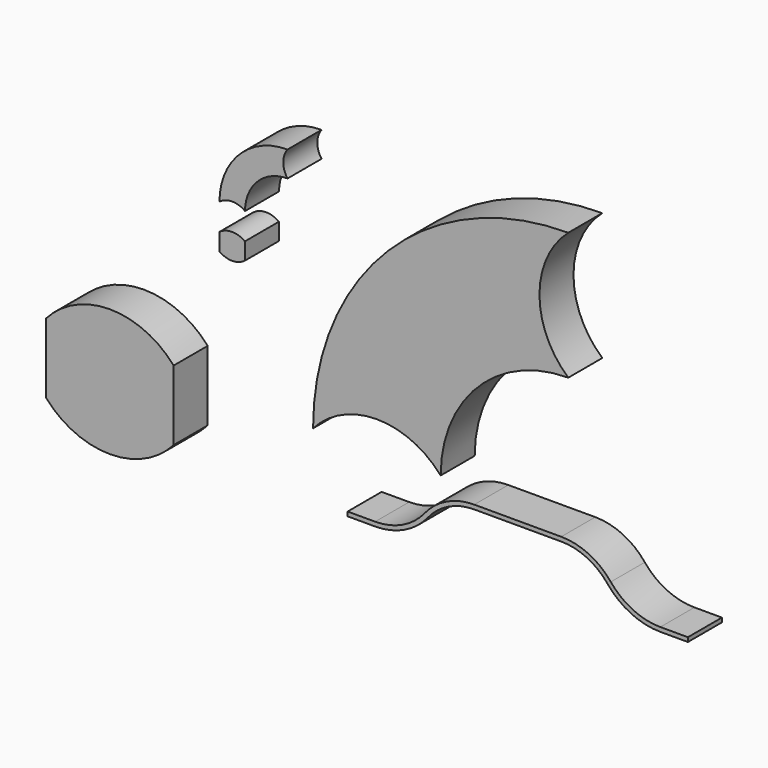
from build123d import *

# Parameters (mm, degrees)
F0_W     = 3
F0_H     = 0.8228756555
F1_DEPTH = 1
F0_W_2   = 0.6
F0_H_2   = 0.2
F2_W     = 0.6473389859
F2_H     = 0.1
F2_W_2   = 1.0221048092
F3_DEPTH = 1


with BuildPart() as f1:
    # F0 (on Front) → F1 (new body)
    with BuildSketch(Plane.XZ):
        with Locations((-22.920627147, 2.5375319613)):
            Rectangle(F0_W, F0_H)
        with Locations((-22.920627147, 1.7146563058)):
            Rectangle(F0_W, F0_H)
        with BuildLine():
            Line((-21.420627147, 1.303218478), (-24.420627147, 1.303218478))
            ThreePointArc((-24.420627147, 1.303218478), (-22.920627147, 0.6260941336), (-21.420627147, 1.303218478))
        make_face()
        with BuildLine():
            ThreePointArc((-21.420627147, 2.9489697891), (-22.920627147, 3.6260941336), (-24.420627147, 2.9489697891))
            Line((-24.420627147, 2.9489697891), (-21.420627147, 2.9489697891))
        make_face()
    extrude(amount=F1_DEPTH)


with BuildPart() as f1b:
    # F0 (on Front) → F1, piece 2 (new body)
    with BuildSketch(Plane.XZ):
        with Locations((-20.0480559736, 5.9617664746)):
            Rectangle(F0_W_2, F0_H_2)
        with Locations((-20.0480559736, 5.7617664746)):
            Rectangle(F0_W_2, F0_H_2)
        with BuildLine():
            Line((-19.7480559736, 5.6617664746), (-20.3480559736, 5.6617664746))
            ThreePointArc((-20.3480559736, 5.6617664746), (-20.0480559736, 5.5617664746), (-19.7480559736, 5.6617664746))
        make_face()
        with BuildLine():
            ThreePointArc((-19.7480559736, 6.0617664746), (-20.0480559736, 6.1617664746), (-20.3480559736, 6.0617664746))
            Line((-20.3480559736, 6.0617664746), (-19.7480559736, 6.0617664746))
        make_face()
    extrude(amount=F1_DEPTH)


with BuildPart() as f1c:
    # F0 (on Front) → F1, piece 3 (new body)
    with BuildSketch(Plane.XZ):
        with BuildLine():
            ThreePointArc((-12.1437952999, 5.7136720182), (-12.8209196444, 7.2136720182), (-12.1437952999, 8.7136720182))
            ThreePointArc((-12.1437952999, 8.7136720182), (-16.3864359871, 6.9563127053), (-18.1437952999, 2.7136720182))
            ThreePointArc((-18.1437952999, 2.7136720182), (-16.6437952999, 3.3907963627), (-15.1437952999, 2.7136720182))
            ThreePointArc((-15.1437952999, 2.7136720182), (-14.2651156435, 4.8349923618), (-12.1437952999, 5.7136720182))
        make_face()
    extrude(amount=F1_DEPTH)


with BuildPart() as f1d:
    # F0 (on Front) → F1, piece 4 (new body)
    with BuildSketch(Plane.XZ):
        with BuildLine():
            ThreePointArc((-18.7439574825, 7.6901305423), (-18.8439574825, 7.9901305423), (-18.7439574825, 8.2901305423))
            ThreePointArc((-18.7439574825, 8.2901305423), (-19.8753283324, 7.8215013922), (-20.3439574825, 6.6901305423))
            ThreePointArc((-20.3439574825, 6.6901305423), (-20.0439574825, 6.7901305423), (-19.7439574825, 6.6901305423))
            ThreePointArc((-19.7439574825, 6.6901305423), (-19.4510642637, 7.3972373235), (-18.7439574825, 7.6901305423))
        make_face()
    extrude(amount=F1_DEPTH)


with BuildPart() as f3:
    # F2 (on Front) → F3 (new body)
    with BuildSketch(Plane.XZ):
        with Locations((-17.0078618377, 1.2069130704)):
            Rectangle(F2_W, F2_H)
        with BuildLine():
            ThreePointArc((-15.5189142423, 1.8123883518), (-16.0387417571, 1.4028844374), (-16.6841923447, 1.2569130704))
            Line((-16.6841923447, 1.2569130704), (-16.6841923447, 1.1569130704))
            ThreePointArc((-16.6841923447, 1.1569130704), (-15.9957117179, 1.3126158619), (-15.4412290355, 1.7494200372))
            ThreePointArc((-15.4412290355, 1.7494200372), (-14.9560566883, 2.1316236907), (-14.3536361399, 2.2678636332))
            Line((-14.3536361399, 2.2678636332), (-14.3536361399, 2.3678636332))
            ThreePointArc((-14.3536361399, 2.3678636332), (-14.9990867275, 2.2218922662), (-15.5189142423, 1.8123883518))
        make_face()
        with Locations((-13.8425837353, 2.3178636332)):
            Rectangle(F2_W_2, F2_H)
        with Locations((-12.8204789261, 2.3178636332)):
            Rectangle(F2_W_2, F2_H)
        with BuildLine():
            ThreePointArc((-11.144148419, 1.8123883518), (-11.6639759338, 2.2218922662), (-12.3094265214, 2.3678636332))
            Line((-12.3094265214, 2.3678636332), (-12.3094265214, 2.2678636332))
            ThreePointArc((-12.3094265214, 2.2678636332), (-11.707005973, 2.1316236907), (-11.2218336259, 1.7494200372))
            ThreePointArc((-11.2218336259, 1.7494200372), (-10.6673509434, 1.3126158619), (-9.9788703166, 1.1569130704))
            Line((-9.9788703166, 1.1569130704), (-9.9788703166, 1.2569130704))
            ThreePointArc((-9.9788703166, 1.2569130704), (-10.6243209042, 1.4028844374), (-11.144148419, 1.8123883518))
        make_face()
        with Locations((-9.6552008236, 1.2069130704)):
            Rectangle(F2_W, F2_H)
    extrude(amount=F3_DEPTH)


solid = Compound([f1.part, f1b.part, f1c.part, f1d.part, f3.part])
